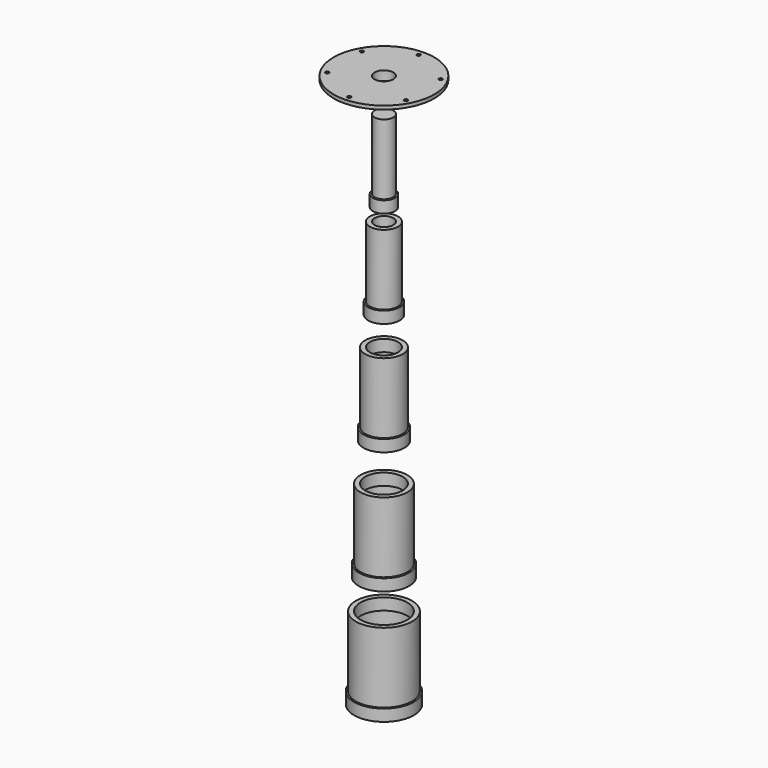
from build123d import *

# Parameters (mm, degrees)
F2_R     = 1.5
F3_DEPTH = 25


with BuildPart() as f1:
    # F0 (on Front) → F1 (revolve)
    with BuildSketch(Plane.XZ):
        Polygon((0, -40.903777), (0, 29.096223), (-8, 29.096223), (-8, 19.096223), (-8, -30.903777), (-9.5, -30.903777), (-9.5, -40.903777), align=None)
        Polygon((-8, -61.803775), (-8, -51.803775), (-12, -51.803775), (-12, -111.803775), (-13.5, -111.803775), (-13.5, -121.803775), (-9.5, -121.803775), (-9.5, -61.803775), align=None)
        Polygon((-12, -156.27625), (-12, -146.27625), (-16, -146.27625), (-16, -206.27625), (-17.5, -206.27625), (-17.5, -216.27625), (-13.5, -216.27625), (-13.5, -156.27625), align=None)
        Polygon((-16.000001, -258.869732), (-16.000001, -248.869732), (-20.000001, -248.869732), (-20.000001, -308.869732), (-21.500001, -308.869732), (-21.500001, -318.869732), (-17.500001, -318.869732), (-17.500001, -258.869732), align=None)
        Polygon((-20.000001, -354.769776), (-20.000001, -344.769776), (-24.000001, -344.769776), (-24.000001, -404.769776), (-25.500001, -404.769776), (-25.500001, -414.769776), (-21.500001, -414.769776), (-21.500001, -354.769776), align=None)
        Polygon((-13, 49.76787), (-8, 49.76787), (-8, 57.76787), (-43, 57.76787), (-43, 54.76787), (-33, 54.76787), align=None)
    revolve(axis=Axis((0, 0, -170.223109), (0, 0, -1)))

    # F2 (on face) → F3 (cut)
    with BuildSketch(Plane.XY.offset(57.76787)):
        with Locations((-33.463883, 18.309993)):
            Circle(F2_R)
        with Locations((-32.588861, -19.825576)):
            Circle(F2_R)
        with Locations((0.875022, -38.13557)):
            Circle(F2_R)
        with Locations((33.463883, -18.309993)):
            Circle(F2_R)
        with Locations((32.588861, 19.825576)):
            Circle(F2_R)
        with Locations((-0.875022, 38.13557)):
            Circle(F2_R)
    extrude(amount=-F3_DEPTH, mode=Mode.SUBTRACT)


solid = f1.part
